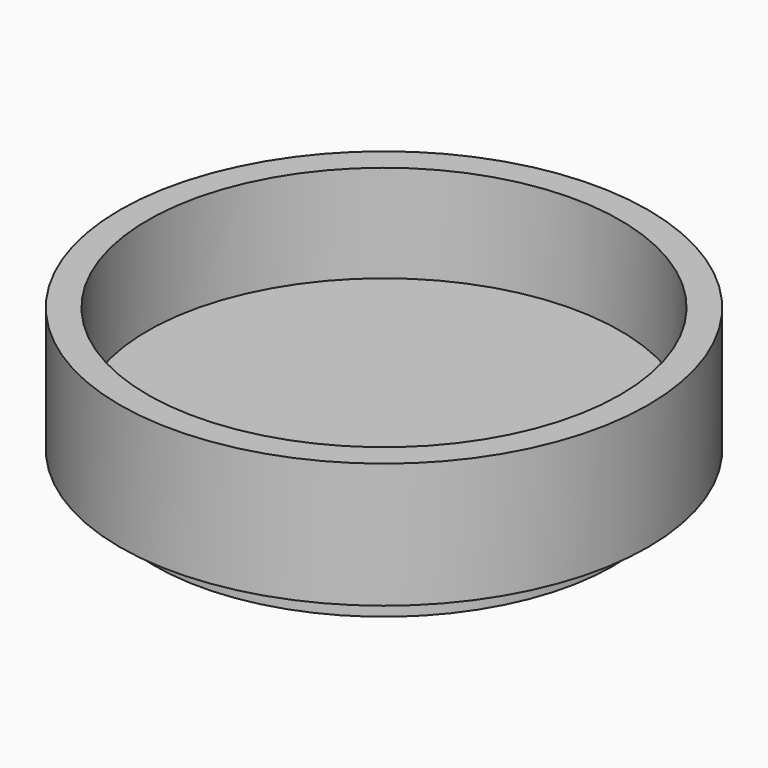
from build123d import *

# Parameters (mm, degrees)
F0_R     = 9.5
F0_R_2   = 8.5
F1_DEPTH = 3.5
F0_R_3   = 8.25
F0_R_4   = 7.25
F2_DEPTH = 1
F3_DEPTH = 2


with BuildPart() as f1:
    # F0 (on Top) → F1 (new body)
    with BuildSketch(Plane.XY):
        Circle(F0_R)
        Circle(F0_R_2, mode=Mode.SUBTRACT)
    extrude(amount=F1_DEPTH)

    # F0 (on Top) → F2 (join)
    with BuildSketch(Plane.XY):
        Circle(F0_R)
        Circle(F0_R_2, mode=Mode.SUBTRACT)
        Circle(F0_R_2)
        Circle(F0_R_3, mode=Mode.SUBTRACT)
        Circle(F0_R_3)
        Circle(F0_R_4, mode=Mode.SUBTRACT)
        Circle(F0_R_4)
    extrude(amount=-F2_DEPTH)

    # F0 (on Top) → F3 (join)
    with BuildSketch(Plane.XY):
        Circle(F0_R_3)
        Circle(F0_R_4, mode=Mode.SUBTRACT)
    extrude(amount=-F3_DEPTH)


solid = f1.part
